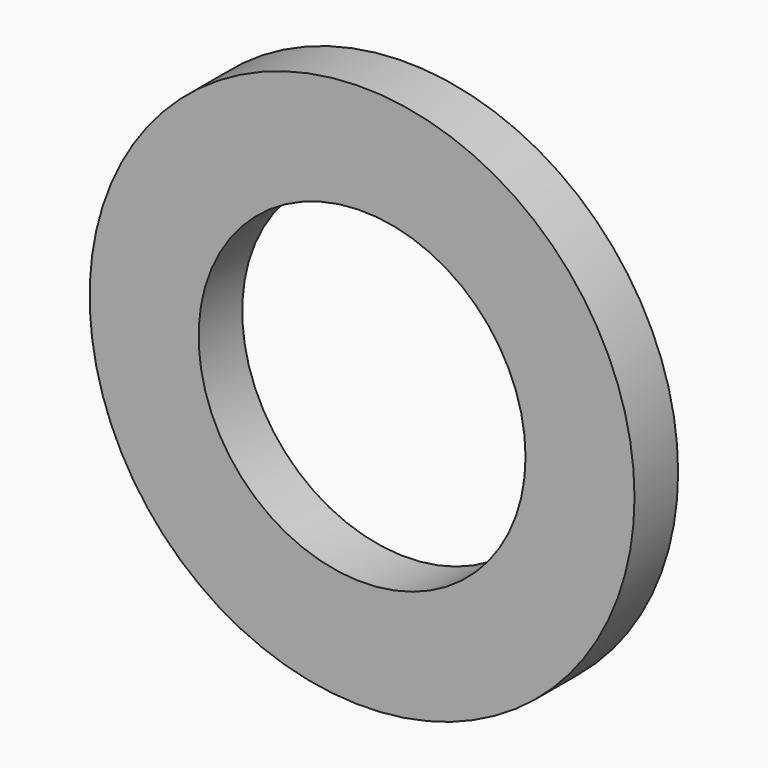
from build123d import *

# Parameters (mm, degrees)
CYLINDER011_R     = 3
CYLINDER011_DEPTH = 1
CYLINDER012_R     = 5
CYLINDER012_DEPTH = 1


with BuildPart() as cylinder001_washer_vertical_cut:
    # Cylinder011 → Cylinder011 (new body)
    with BuildSketch(Plane(origin=(0, -3, 5), x_dir=(1, 0, 0), z_dir=(0, -1, 0))):
        Circle(CYLINDER011_R)
    extrude(amount=CYLINDER011_DEPTH)


with BuildPart() as cut012:
    # Cylinder012 → Cylinder012 (new body)
    with BuildSketch(Plane(origin=(0, -3, 5), x_dir=(1, 0, 0), z_dir=(0, -1, 0))):
        Circle(CYLINDER012_R)
    extrude(amount=CYLINDER012_DEPTH)

    # Cut012: cut Cylinder001(washer_vertical_cut)
    add(cylinder001_washer_vertical_cut.part, mode=Mode.SUBTRACT)


solid = cut012.part
